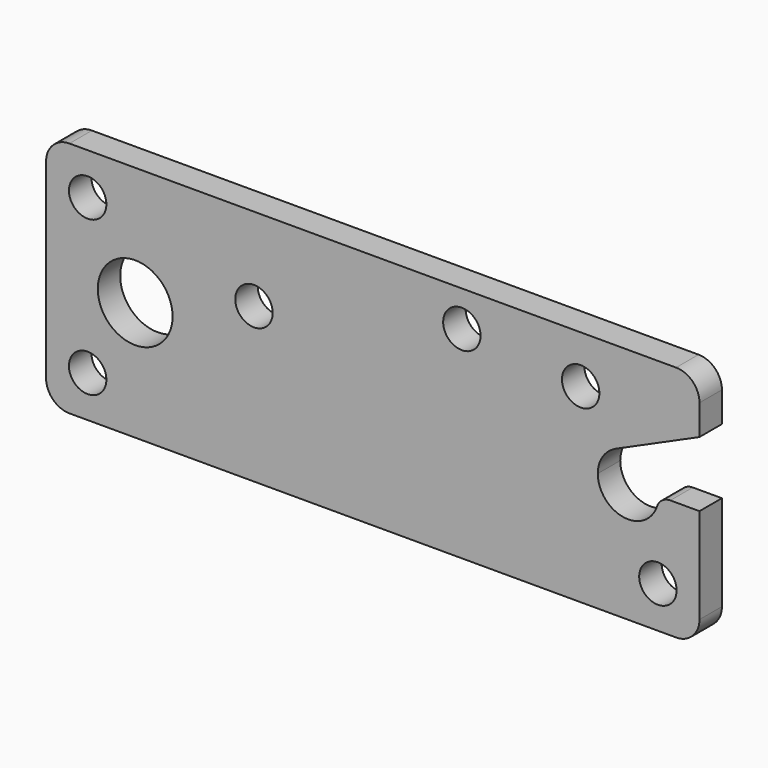
from build123d import *

# Parameters (mm, degrees)
F0_R     = 4
F0_R_2   = 8
F1_DEPTH = 6
F2_R     = 5
F3_R     = 5
F4_R     = 3


with BuildPart() as f1:
    # F0 (on Front) → F1 (new body)
    with BuildSketch(Plane.XZ):
        with BuildLine():
            Line((-67.0491158962, 8.89), (-67.0491158962, 0))
            Line((-67.0491158962, 0), (72.6508841038, 0))
            Line((72.6508841038, 0), (72.6508841038, 25.4))
            Line((72.6508841038, 25.4), (63.9108841038, 25.4))
            ThreePointArc((63.9108841038, 25.4), (57.4108841038, 18.9), (50.9108841038, 25.4))
            ThreePointArc((50.9108841038, 25.4), (51.9554394899, 28.933853996), (54.7533838162, 31.3319214612))
            Line((54.7533838162, 31.3319214612), (72.6508841038, 39.35))
            Line((72.6508841038, 39.35), (72.6508841038, 50.8))
            Line((72.6508841038, 50.8), (47.2508841038, 50.8))
            Line((47.2508841038, 50.8), (21.8508841038, 50.8))
            Line((21.8508841038, 50.8), (-22.5991158962, 50.8))
            Line((-22.5991158962, 50.8), (-67.0491158962, 50.8))
            Line((-67.0491158962, 50.8), (-67.0491158962, 41.91))
            Line((-67.0491158962, 41.91), (-67.0491158962, 8.89))
        make_face()
        with Locations((-58.1591158962, 8.89)):
            Circle(F0_R, mode=Mode.SUBTRACT)
        with Locations((-47.9991158962, 25.4)):
            Circle(F0_R_2, mode=Mode.SUBTRACT)
        with Locations((63.7608841038, 8.89)):
            Circle(F0_R, mode=Mode.SUBTRACT)
        with Locations((-22.5991158962, 33.02)):
            Circle(F0_R, mode=Mode.SUBTRACT)
        with Locations((-58.1591158962, 41.91)):
            Circle(F0_R, mode=Mode.SUBTRACT)
        with Locations((21.8508841038, 43.18)):
            Circle(F0_R, mode=Mode.SUBTRACT)
        with Locations((47.2508841038, 40.64)):
            Circle(F0_R, mode=Mode.SUBTRACT)
    extrude(amount=F1_DEPTH)

    # F2
    f2_edges = [f1.edges().sort_by_distance(p)[0] for p in [
        (-67.049116, -3, 50.8),
        (-67.049116, -3, 0),
        (72.650884, -3, 0),
    ]]
    fillet(f2_edges, radius=F2_R)

    # F3
    f3_edges = [f1.edges().sort_by_distance(p)[0] for p in [
        (72.650884, -3, 50.8),
    ]]
    fillet(f3_edges, radius=F3_R)

    # F4
    f4_edges = [f1.edges().sort_by_distance(p)[0] for p in [
        (63.910884, -3, 25.4),
    ]]
    fillet(f4_edges, radius=F4_R)


solid = f1.part
